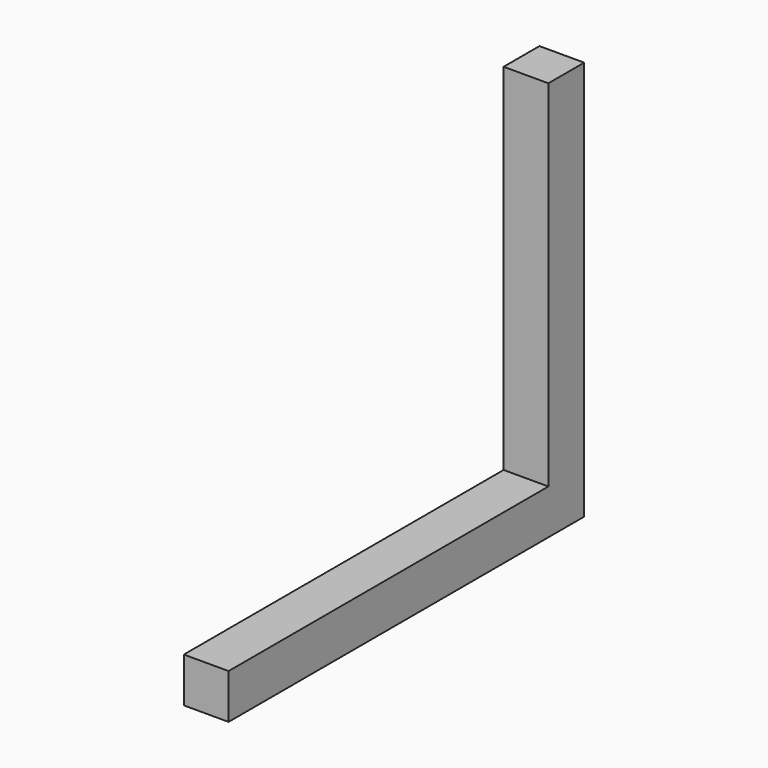
from build123d import *

# Parameters (mm, degrees)
BOX008_W     = 0.56
BOX008_H     = 0.56
BOX008_DEPTH = 5
BOX009_W     = 0.56
BOX009_H     = 0.56
BOX009_DEPTH = 5


with BuildPart() as cubo008:
    # Box008 → Box008 (new body)
    with BuildSketch(Plane(origin=(-1.5, 14, 0), x_dir=(1, 0, 0), z_dir=(0, -1, 0))):
        with Locations((0.28, 0.28)):
            Rectangle(BOX008_W, BOX008_H)
    extrude(amount=BOX008_DEPTH)


with BuildPart() as obj1:
    # Box009 → Box009 (new body)
    with BuildSketch(Plane(origin=(-1.5, 14, 0), x_dir=(1, 0, 0), z_dir=(0, 0, 1))):
        with Locations((0.28, 0.28)):
            Rectangle(BOX009_W, BOX009_H)
    extrude(amount=BOX009_DEPTH)

    # Fusion015: union Cubo008
    add(cubo008.part)


solid = obj1.part
